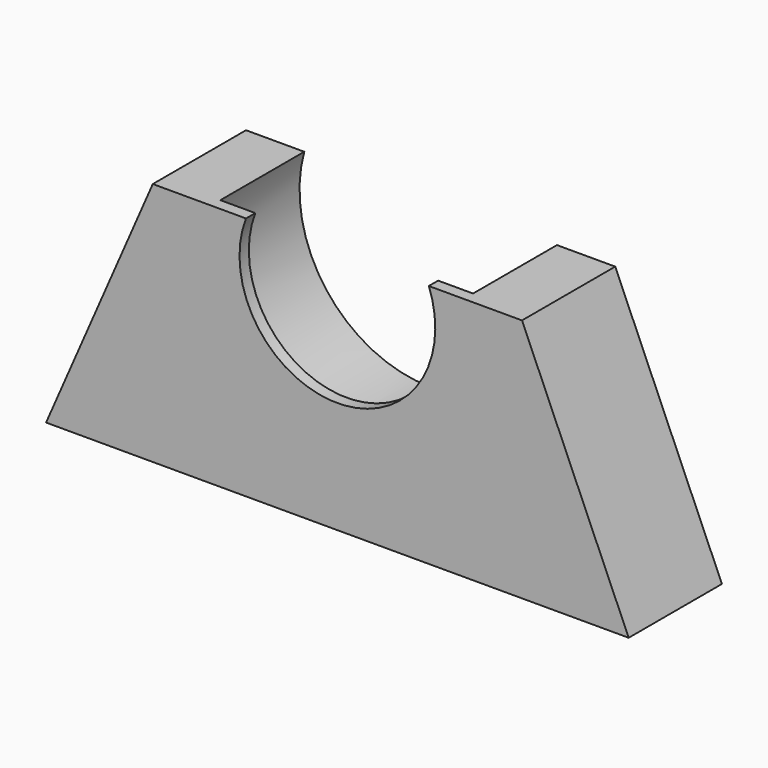
from build123d import *

# Parameters (mm, degrees)
PAD001_DEPTH = 1
PAD012_DEPTH = 10
SKETCH012_R  = 1.475
POCKET_DEPTH = 50


with BuildPart() as part:
    # Sketch001 → Pad001 (new body)
    with BuildSketch(Plane.XZ):
        with BuildLine():
            ThreePointArc((17.153982, 21), (25, 9.6), (32.846018, 21))
            Line((36.846018, 21), (32.846018, 21))
            Line((50, 0), (36.846018, 21))
            Line((0, 0), (50, 0))
            Line((13.153982, 21), (0, 0))
            Line((17.153982, 21), (13.153982, 21))
        make_face()
    extrude(amount=-PAD001_DEPTH)

    # Sketch011 → Pad012 (join)
    with BuildSketch(Plane.XZ):
        with BuildLine():
            ThreePointArc((14.157376, 21), (25, 6.75), (35.842624, 21))
            Line((40.842624, 21), (35.842624, 21))
            Line((50, 0), (40.842624, 21))
            Line((0, 0), (50, 0))
            Line((9.157376, 21), (0, 0))
            Line((14.157376, 21), (9.157376, 21))
        make_face()
    extrude(amount=-PAD012_DEPTH)

    # Sketch012 → Pocket (cut)
    with BuildSketch(Plane.XY):
        with Locations((25, 5)):
            Circle(SKETCH012_R)
    extrude(amount=POCKET_DEPTH, mode=Mode.SUBTRACT)


solid = part.part
